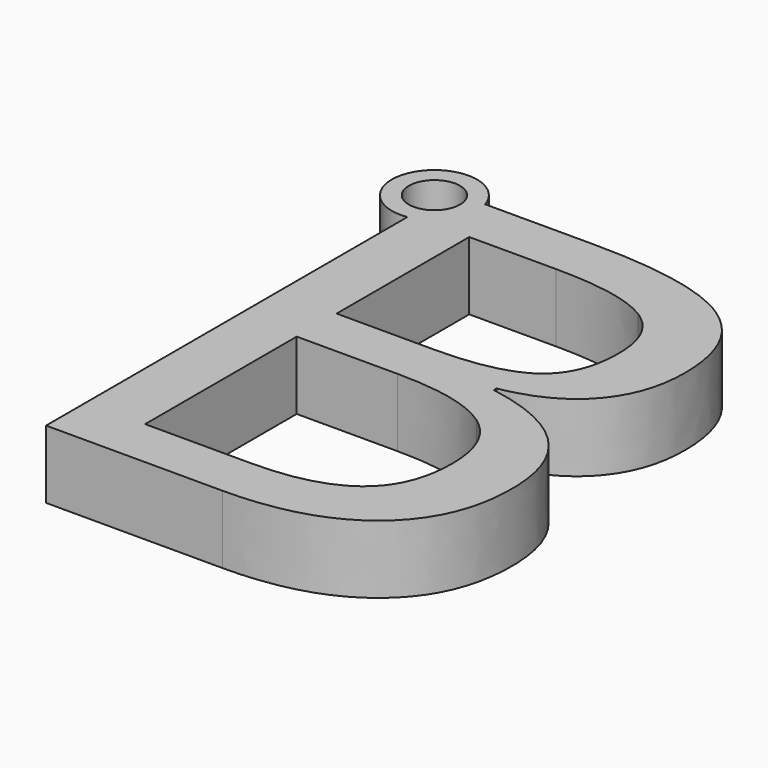
from build123d import *

# Parameters (mm, degrees)
F1_DEPTH = 4


with BuildPart() as f1:
    # F0 (on Top) → F1 (new body)
    with BuildSketch(Plane.XY):
        with BuildLine():
            ThreePointArc((-29.5870762934, 21.3277260357), (-29.4388915489, 20.9676838727), (-29.3883618563, 20.5816322857))
            ThreePointArc((-29.3883618563, 20.5816322857), (-29.6986024925, 19.6681375368), (-30.5009920647, 19.1325137106))
            Line((-30.5009920647, 19.1325137106), (-30.5009920647, 18.111825685))
            ThreePointArc((-30.5009920647, 18.111825685), (-28.988569173, 18.9565822063), (-28.3883618563, 20.5816322857))
            ThreePointArc((-28.3883618563, 20.5816322857), (-28.4170077365, 20.9590032096), (-28.5022889077, 21.3277260357))
            Line((-28.5022889077, 21.3277260357), (-29.5870762934, 21.3277260357))
        make_face()
        with BuildLine():
            ThreePointArc((-30.5009920647, 19.1325137106), (-32.2731465019, 21.1581489683), (-29.5870762934, 21.3277260357))
            Line((-29.5870762934, 21.3277260357), (-28.5022889077, 21.3277260357))
            ThreePointArc((-28.5022889077, 21.3277260357), (-33.0116847062, 21.9012913611), (-30.5009920647, 18.111825685))
            Line((-30.5009920647, 18.111825685), (-30.5009920647, 19.1325137106))
        make_face()
        with BuildLine():
            Line((-22.096044148, 21.3277260357), (-28.5022889077, 21.3277260357))
            ThreePointArc((-28.5022889077, 21.3277260357), (-28.4170077365, 20.9590032096), (-28.3883618563, 20.5816322857))
            ThreePointArc((-28.3883618563, 20.5816322857), (-28.988569173, 18.9565822063), (-30.5009920647, 18.111825685))
            Line((-30.5009920647, 18.111825685), (-30.5009920647, -8.4183677143))
            Line((-30.5009920647, -8.4183677143), (-20.123387898, -8.4183677143))
            add(Edge.make_bspline(
                [(-12.584325398, -6.178784381), (-15.279637898, -8.4183677143), (-20.123387898, -8.4183677143)],
                knots=[0, 0, 0, 1, 1, 1], degree=2))
            add(Edge.make_bspline(
                [(-9.889012898, 0.0451739523), (-9.889012898, -3.9392010477), (-12.584325398, -6.178784381)],
                knots=[0, 0, 0, 1, 1, 1], degree=2))
            add(Edge.make_bspline(
                [(-16.666356648, 7.1675697857), (-9.889012898, 6.008715619), (-9.889012898, 0.0451739523)],
                knots=[0, 0, 0, 1, 1, 1], degree=2))
            Line((-16.666356648, 7.1675697857), (-16.666356648, 7.3693927023))
            add(Edge.make_bspline(
                [(-12.359716023, 9.5959552023), (-13.834325398, 7.8772052023), (-16.666356648, 7.3693927023)],
                knots=[0, 0, 0, 1, 1, 1], degree=2))
            add(Edge.make_bspline(
                [(-10.885106648, 13.9644447857), (-10.885106648, 11.3147052023), (-12.359716023, 9.5959552023)],
                knots=[0, 0, 0, 1, 1, 1], degree=2))
            add(Edge.make_bspline(
                [(-13.531591023, 19.5568927023), (-10.885106648, 17.786059369), (-10.885106648, 13.9644447857)],
                knots=[0, 0, 0, 1, 1, 1], degree=2))
            add(Edge.make_bspline(
                [(-22.096044148, 21.3277260357), (-16.178075398, 21.3277260357), (-13.531591023, 19.5568927023)],
                knots=[0, 0, 0, 1, 1, 1], degree=2))
        make_face()
        with BuildLine():
            Line((-27.0439608147, -5.4691489643), (-27.0439608147, 5.6636635357))
            Line((-27.0439608147, 5.6636635357), (-21.119481648, 5.6636635357))
            add(Edge.make_bspline(
                [(-15.455419148, 4.3615802023), (-17.3173983147, 5.6636635357), (-21.119481648, 5.6636635357)],
                knots=[0, 0, 0, 1, 1, 1], degree=2))
            add(Edge.make_bspline(
                [(-13.5934399813, 0.2925697857), (-13.5934399813, 3.059496869), (-15.455419148, 4.3615802023)],
                knots=[0, 0, 0, 1, 1, 1], degree=2))
            add(Edge.make_bspline(
                [(-15.4131014397, -4.0759197977), (-13.5934399813, -2.682690631), (-13.5934399813, 0.2925697857)],
                knots=[0, 0, 0, 1, 1, 1], degree=2))
            add(Edge.make_bspline(
                [(-20.8330233147, -5.4691489643), (-17.232762898, -5.4691489643), (-15.4131014397, -4.0759197977)],
                knots=[0, 0, 0, 1, 1, 1], degree=2))
            Line((-20.8330233147, -5.4691489643), (-27.0439608147, -5.4691489643))
        make_face(mode=Mode.SUBTRACT)
        with BuildLine():
            Line((-21.3473462313, 8.5933510357), (-27.0439608147, 8.5933510357))
            Line((-27.0439608147, 8.5933510357), (-27.0439608147, 18.332934369))
            Line((-27.0439608147, 18.332934369), (-21.9528149813, 18.332934369))
            add(Edge.make_bspline(
                [(-16.256200398, 17.2261635357), (-18.0465649813, 18.332934369), (-21.9528149813, 18.332934369)],
                knots=[0, 0, 0, 1, 1, 1], degree=2))
            add(Edge.make_bspline(
                [(-14.4658358147, 13.6128822857), (-14.4658358147, 16.1193927023), (-16.256200398, 17.2261635357)],
                knots=[0, 0, 0, 1, 1, 1], degree=2))
            add(Edge.make_bspline(
                [(-16.0739087313, 9.7424395773), (-14.4658358147, 10.891528119), (-14.4658358147, 13.6128822857)],
                knots=[0, 0, 0, 1, 1, 1], degree=2))
            add(Edge.make_bspline(
                [(-21.3473462313, 8.5933510357), (-17.681981648, 8.5933510357), (-16.0739087313, 9.7424395773)],
                knots=[0, 0, 0, 1, 1, 1], degree=2))
        make_face(mode=Mode.SUBTRACT)
    extrude(amount=F1_DEPTH)


solid = f1.part
